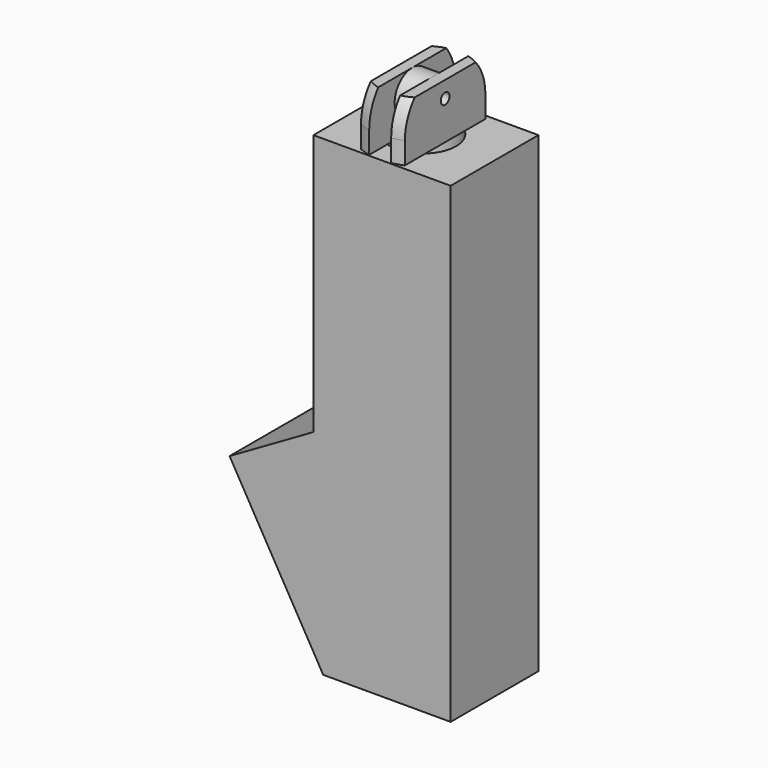
from build123d import *

# Parameters (mm, degrees)
CYLINDER259_R               = 2
CYLINDER259_DEPTH           = 10
CYLINDER259_PLACEMENT_ANGLE = 45
CYLINDER258_R               = 3
CYLINDER258_DEPTH           = 37
CYLINDER254_R               = 0.5
CYLINDER254_DEPTH           = 10
CYLINDER253_R               = 2
CYLINDER253_DEPTH           = 4
CYLINDER257_R               = 3
CYLINDER257_DEPTH           = 10
BOX138_W                    = 10
BOX138_H                    = 10
BOX138_DEPTH                = 10
BOX136_W                    = 2
BOX136_H                    = 10
BOX136_DEPTH                = 10
BOX137_W                    = 10
BOX137_H                    = 10
BOX137_DEPTH                = 10
CYLINDER256_R               = 5
CYLINDER256_DEPTH           = 10
CYLINDER255_R               = 5
CYLINDER255_DEPTH           = 10
BOX133_W                    = 10
BOX133_H                    = 10
BOX133_DEPTH                = 20
BOX133_PLACEMENT_ANGLE      = 30
BOX134_W                    = 12
BOX134_H                    = 10
BOX134_DEPTH                = 17
BOX134_PLACEMENT_ANGLE      = 30
BOX135_W                    = 12.5
BOX135_H                    = 10
BOX135_DEPTH                = 43


with BuildPart() as cylinder259:
    # Cylinder259 → Cylinder259 (new body)
    with BuildSketch(Plane.XY):
        Circle(CYLINDER259_R)
    extrude(amount=CYLINDER259_DEPTH)


with BuildPart() as cylinder259_1:
    # Cylinder259 placement: moved
    add(cylinder259.part.moved(Location((-62.041631, 0, -84.020815))).rotate(Axis((-62.041631, 0, -84.020815), (0, 1, 0)), CYLINDER259_PLACEMENT_ANGLE))


with BuildPart() as cylinder258:
    # Cylinder258 → Cylinder258 (new body)
    with BuildSketch(Plane(origin=(-52, 0, -84.5), x_dir=(1, 0, 0), z_dir=(0, 0, 1))):
        Circle(CYLINDER258_R)
    extrude(amount=CYLINDER258_DEPTH)


with BuildPart() as cylinder254:
    # Cylinder254 → Cylinder254 (new body)
    with BuildSketch(Plane(origin=(-5, 0, -7), x_dir=(0, 0, -1), z_dir=(1, 0, 0))):
        Circle(CYLINDER254_R)
    extrude(amount=CYLINDER254_DEPTH)


with BuildPart() as cylinder253:
    # Cylinder253 → Cylinder253 (new body)
    with BuildSketch(Plane(origin=(-2, -50, 1), x_dir=(0, 0, -1), z_dir=(1, 0, 0))):
        Circle(CYLINDER253_R)
    extrude(amount=CYLINDER253_DEPTH)


with BuildPart() as cylinder257:
    # Cylinder257 → Cylinder257 (new body)
    with BuildSketch(Plane(origin=(0, -50, -12), x_dir=(1, 0, 0), z_dir=(0, 0, 1))):
        Circle(CYLINDER257_R)
    extrude(amount=CYLINDER257_DEPTH)


with BuildPart() as cube138:
    # Box138 → Box138 (new body)
    with BuildSketch(Plane(origin=(-12, -55, -2), x_dir=(1, 0, 0), z_dir=(0, 0, 1))):
        with Locations((5, 5)):
            Rectangle(BOX138_W, BOX138_H)
    extrude(amount=BOX138_DEPTH)


with BuildPart() as cube136:
    # Box136 → Box136 (new body)
    with BuildSketch(Plane(origin=(-1, -55, -2), x_dir=(1, 0, 0), z_dir=(0, 0, 1))):
        with Locations((1, 5)):
            Rectangle(BOX136_W, BOX136_H)
    extrude(amount=BOX136_DEPTH)


with BuildPart() as cube137:
    # Box137 → Box137 (new body)
    with BuildSketch(Plane(origin=(2, -55, -2), x_dir=(1, 0, 0), z_dir=(0, 0, 1))):
        with Locations((5, 5)):
            Rectangle(BOX137_W, BOX137_H)
    extrude(amount=BOX137_DEPTH)


with BuildPart() as cylinder256:
    # Cylinder256 → Cylinder256 (new body)
    with BuildSketch(Plane(origin=(0, -50, -10), x_dir=(1, 0, 0), z_dir=(0, 0, 1))):
        Circle(CYLINDER256_R)
    extrude(amount=CYLINDER256_DEPTH)


with BuildPart() as sphere049:
    # Sphere049 → Sphere049 (revolve)
    with BuildSketch(Plane.XZ.offset(50)):
        with BuildLine():
            ThreePointArc((5, 0), (3.535534, 3.535534), (0, 5))
            Line((0, 5), (0, 0))
            Line((0, 0), (5, 0))
        make_face()
    revolve(axis=Axis((0, -50, 0), (0, 0, 1)))


with BuildPart() as cut204006062:
    # Cylinder255 → Cylinder255 (new body)
    with BuildSketch(Plane(origin=(0, -50, -7), x_dir=(1, 0, 0), z_dir=(0, 0, 1))):
        Circle(CYLINDER255_R)
    extrude(amount=CYLINDER255_DEPTH)

    # Common042: intersect Sphere049
    add(sphere049.part, mode=Mode.INTERSECT)

    # Fusion005077020026: union Cylinder256
    add(cylinder256.part)

    # Cut204006061: cut Cube137
    add(cube137.part, mode=Mode.SUBTRACT)

    # Cut204006063: cut Cube136
    add(cube136.part, mode=Mode.SUBTRACT)

    # Cut204006064: cut Cube138
    add(cube138.part, mode=Mode.SUBTRACT)

    # Cut204006060: cut Cylinder257
    add(cylinder257.part, mode=Mode.SUBTRACT)

    # Fusion005077020025: union Cylinder253
    add(cylinder253.part)


with BuildPart() as cut204006062_1:
    # Fusion005077020027 placement: moved
    add(cut204006062.part.moved(Location((0, 50, -8.5))))

    # Cut204006062: cut Cylinder254
    add(cylinder254.part, mode=Mode.SUBTRACT)


with BuildPart() as cut204006062_2:
    # Cut204006062 placement: moved
    add(cut204006062_1.part.moved(Location((-52, 0, -37))))


with BuildPart() as cube133:
    # Box133 → Box133 (new body)
    with BuildSketch(Plane.XY):
        with Locations((5, 5)):
            Rectangle(BOX133_W, BOX133_H)
    extrude(amount=BOX133_DEPTH)


with BuildPart() as cube133_1:
    # Box133 placement: moved
    add(cube133.part.moved(Location((-168.49167, -5, -108.102886))).rotate(Axis((-168.49167, -5, -108.102886), (0, -1, 0)), BOX133_PLACEMENT_ANGLE))


with BuildPart() as cube134:
    # Box134 → Box134 (new body)
    with BuildSketch(Plane.XY):
        with Locations((6, 5)):
            Rectangle(BOX134_W, BOX134_H)
    extrude(amount=BOX134_DEPTH)


with BuildPart() as cube134_1:
    # Box134 placement: moved
    add(cube134.part.moved(Location((-167.14, -5, -90.45))).rotate(Axis((-167.14, -5, -90.45), (0, -1, 0)), BOX134_PLACEMENT_ANGLE))


with BuildPart() as cut204006066:
    # Box135 → Box135 (new body)
    with BuildSketch(Plane(origin=(-168, -5, -90.5), x_dir=(1, 0, 0), z_dir=(0, 0, 1))):
        with Locations((6.25, 5)):
            Rectangle(BOX135_W, BOX135_H)
    extrude(amount=BOX135_DEPTH)

    # Fusion005077020024: union Cube134
    add(cube134_1.part)

    # Cut204006058: cut Cube133
    add(cube133_1.part, mode=Mode.SUBTRACT)


with BuildPart() as cut204006066_1:
    # Cut204006059 placement: moved
    add(cut204006066.part.moved(Location((110, 0, 0))))

    # Fusion005077020028: union Cut204006062
    add(cut204006062_2.part)

    # Cut204006065: cut Cylinder258
    add(cylinder258.part, mode=Mode.SUBTRACT)

    # Cut204006066: cut Cylinder259
    add(cylinder259_1.part, mode=Mode.SUBTRACT)


with BuildPart() as cut204006066_2:
    # Cut204006066 placement: moved
    add(cut204006066_1.part.moved(Location((153.5, 0, 0))))


solid = cut204006066_2.part
